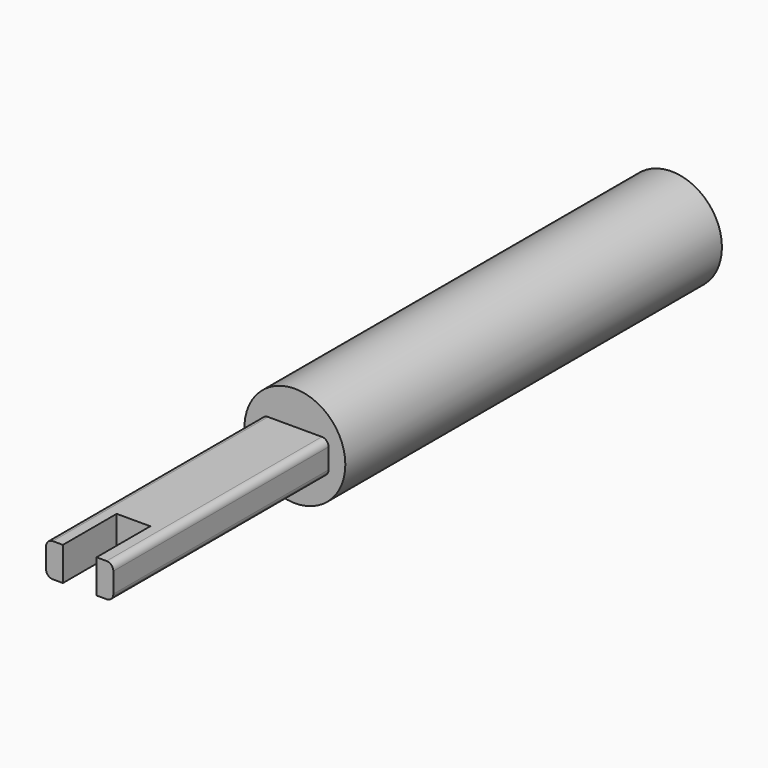
from build123d import *

# Parameters (mm, degrees)
F0_R     = 9.525
F1_DEPTH = 88.9
F2_W     = 12.7
F2_H     = 6.35
F3_DEPTH = 50.8
F4_W     = 6.35
F4_H     = 6.35
F5_DEPTH = 12.7
F6_R     = 1.27


with BuildPart() as f1:
    # F0 (on Front) → F1 (new body)
    with BuildSketch(Plane.XZ):
        Circle(F0_R)
    extrude(amount=-F1_DEPTH)

    # F2 (on face) → F3 (join)
    with BuildSketch(Plane.XZ):
        Rectangle(F2_W, F2_H)
    extrude(amount=F3_DEPTH)

    # F4 (on face) → F5 (cut)
    with BuildSketch(Plane.XZ.offset(50.8)):
        Rectangle(F4_W, F4_H)
    extrude(amount=-F5_DEPTH, mode=Mode.SUBTRACT)

    # F6
    f6_edges = [f1.edges().sort_by_distance(p)[0] for p in [
        (6.35, -25.4, 3.175),
        (-6.35, -25.4, 3.175),
        (-6.35, -25.4, -3.175),
        (6.35, -25.4, -3.175),
    ]]
    fillet(f6_edges, radius=F6_R)


solid = f1.part
